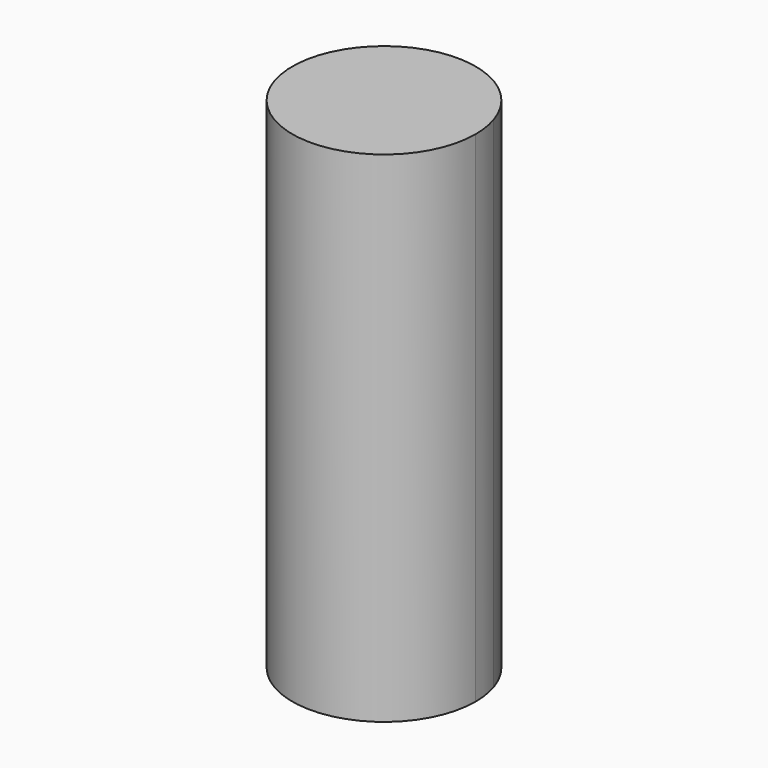
from build123d import *

# Parameters (mm, degrees)
F1_DEPTH = 73


with BuildPart() as f1:
    # F0 (on Top) → F1 (new body)
    with BuildSketch(Plane.XY):
        with BuildLine():
            ThreePointArc((13.4, -22.1651125194), (13.2381540755, -20.0887511173), (12.7565258698, -18.0625465257))
            ThreePointArc((12.7565258698, -18.0625465257), (12.5423859348, -18.2132615611), (12.3264750686, -18.3614284655))
            ThreePointArc((12.3264750686, -18.3614284655), (12.755812957, -20.2417727659), (12.9, -22.1651125194))
            ThreePointArc((12.9, -22.1651125194), (-1.883665929, -34.9268444813), (-12.3498918865, -18.4381606292))
            ThreePointArc((-12.3498918865, -18.4381606292), (-12.5667200304, -18.2913393444), (-12.7817931243, -18.1419589643))
            ThreePointArc((-12.7817931243, -18.1419589643), (-2.0351869858, -35.4096590927), (13.4, -22.1651125194))
        make_face()
        with BuildLine():
            ThreePointArc((12.3264750686, -18.3614284655), (12.5423859348, -18.2132615611), (12.7565258698, -18.0625465257))
            ThreePointArc((12.7565258698, -18.0625465257), (-0.041667642, -8.7651773028), (-12.7817931243, -18.1419589643))
            ThreePointArc((-12.7817931243, -18.1419589643), (-12.5667200304, -18.2913393444), (-12.3498918865, -18.4381606292))
            ThreePointArc((-12.3498918865, -18.4381606292), (-0.0401128792, -9.2651748855), (12.3264750686, -18.3614284655))
        make_face()
        with BuildLine():
            ThreePointArc((12.9, -22.1651125194), (12.755812957, -20.2417727659), (12.3264750686, -18.3614284655))
            ThreePointArc((12.3264750686, -18.3614284655), (0, -22.1651125194), (-12.3498918865, -18.4381606292))
            ThreePointArc((-12.3498918865, -18.4381606292), (-1.883665929, -34.9268444813), (12.9, -22.1651125194))
        make_face()
        with BuildLine():
            ThreePointArc((-12.3498918865, -18.4381606292), (0, -22.1651125194), (12.3264750686, -18.3614284655))
            ThreePointArc((12.3264750686, -18.3614284655), (-0.0401128792, -9.2651748855), (-12.3498918865, -18.4381606292))
        make_face()
    extrude(amount=F1_DEPTH)


solid = f1.part
